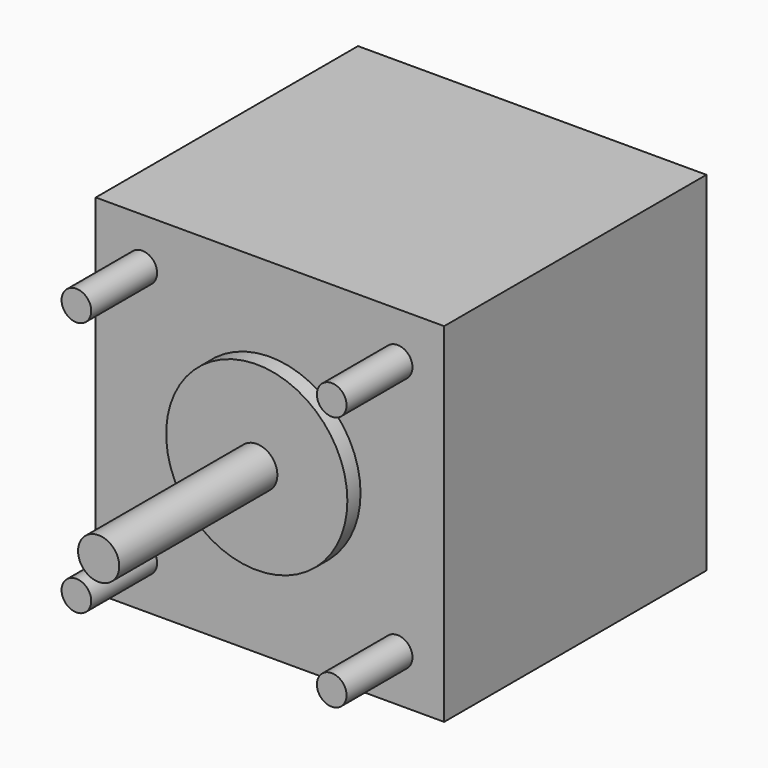
from build123d import *

# Parameters (mm, degrees)
CYLINDER004_R     = 1.8
CYLINDER004_DEPTH = 10
CYLINDER005_R     = 1.8
CYLINDER005_DEPTH = 10
CYLINDER002_R     = 1.8
CYLINDER002_DEPTH = 10
CYLINDER003_R     = 1.8
CYLINDER003_DEPTH = 10
CYLINDER001_R     = 2.5
CYLINDER001_DEPTH = 24
CYLINDER_R        = 11
CYLINDER_DEPTH    = 2
BOX_W             = 42.3
BOX_H             = 39.8
BOX_DEPTH         = 42.3


with BuildPart() as cylinder004:
    # Cylinder004 → Cylinder004 (new body)
    with BuildSketch(Plane(origin=(5.65, 0, 36.65), x_dir=(1, 0, 0), z_dir=(0, -1, 0))):
        Circle(CYLINDER004_R)
    extrude(amount=CYLINDER004_DEPTH)


with BuildPart() as cylinder005:
    # Cylinder005 → Cylinder005 (new body)
    with BuildSketch(Plane(origin=(36.65, 0, 36.65), x_dir=(1, 0, 0), z_dir=(0, -1, 0))):
        Circle(CYLINDER005_R)
    extrude(amount=CYLINDER005_DEPTH)


with BuildPart() as cylinder002:
    # Cylinder002 → Cylinder002 (new body)
    with BuildSketch(Plane(origin=(5.65, 0, 5.65), x_dir=(1, 0, 0), z_dir=(0, -1, 0))):
        Circle(CYLINDER002_R)
    extrude(amount=CYLINDER002_DEPTH)


with BuildPart() as cylinder003:
    # Cylinder003 → Cylinder003 (new body)
    with BuildSketch(Plane(origin=(36.65, 0, 5.65), x_dir=(1, 0, 0), z_dir=(0, -1, 0))):
        Circle(CYLINDER003_R)
    extrude(amount=CYLINDER003_DEPTH)


with BuildPart() as cylinder001:
    # Cylinder001 → Cylinder001 (new body)
    with BuildSketch(Plane(origin=(21.15, -2, 21.15), x_dir=(1, 0, 0), z_dir=(0, -1, 0))):
        Circle(CYLINDER001_R)
    extrude(amount=CYLINDER001_DEPTH)


with BuildPart() as cylinder:
    # Cylinder → Cylinder (new body)
    with BuildSketch(Plane(origin=(21.15, 0, 21.15), x_dir=(1, 0, 0), z_dir=(0, -1, 0))):
        Circle(CYLINDER_R)
    extrude(amount=CYLINDER_DEPTH)


with BuildPart() as fusion002:
    # Box → Box (new body)
    with BuildSketch(Plane.XY):
        with Locations((21.15, 19.9)):
            Rectangle(BOX_W, BOX_H)
    extrude(amount=BOX_DEPTH)

    # Fusion: union Cylinder
    add(cylinder.part)

    # Fusion001: union Cylinder001
    add(cylinder001.part)

    # Fusion002: union Cylinder004, Cylinder005, Cylinder002, Cylinder003
    add(cylinder004.part)
    add(cylinder005.part)
    add(cylinder002.part)
    add(cylinder003.part)


solid = fusion002.part
